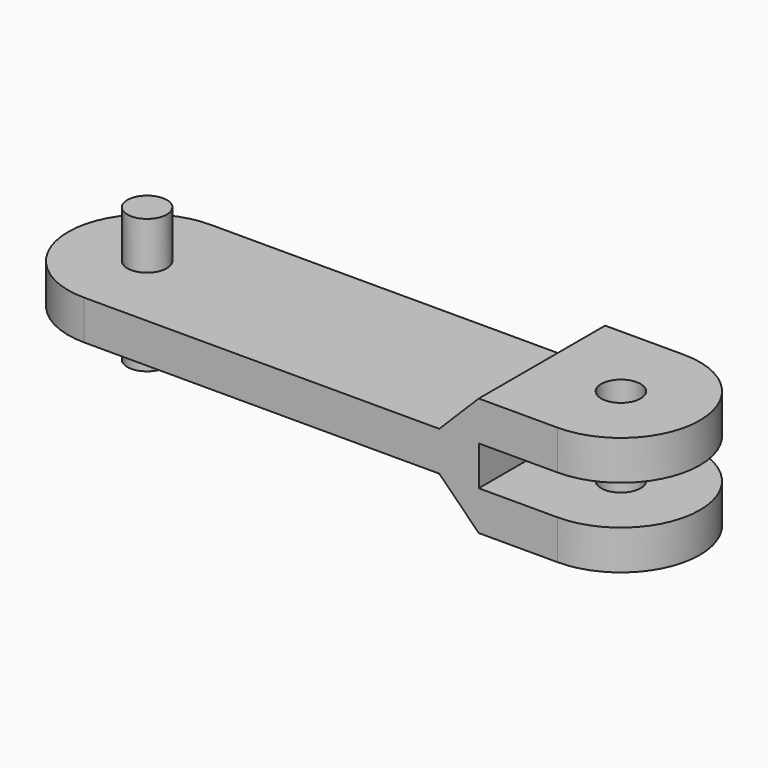
from build123d import *

# Parameters (mm, degrees)
PAD_DEPTH       = 5
SKETCH001_R     = 5
PAD001_DEPTH    = 12
PAD002_DEPTH    = 10
SKETCH003_W     = 40
SKETCH003_H     = 10
POCKET_DEPTH    = 40
POCKET001_DEPTH = 40
SKETCH005_R     = 5
POCKET002_DEPTH = 30


with BuildPart() as part:
    # Sketch → Pad (new body, symmetric)
    with BuildSketch(Plane.XY):
        with BuildLine():
            ThreePointArc((0, 20), (-20, 0), (0, -20))
            Line((0, -20), (119.999969, -20))
            ThreePointArc((119.999969, -20), (140, -1.6e-05), (120, 20))
            Line((0, 20), (120, 20))
        make_face()
    extrude(amount=PAD_DEPTH, both=True)

    # Sketch001 (on Face6 of Pad) → Pad001 (join)
    with BuildSketch(Plane.XY.offset(5)):
        Circle(SKETCH001_R)
    pad001 = extrude(amount=PAD001_DEPTH)

    # Sketch002 (on Face5 of Pad001) → Pad002 (join)
    with BuildSketch(Plane.XY.offset(5)):
        with BuildLine():
            Line((90, 20), (119.999998, 20))
            ThreePointArc((120.000041, -20), (140, 2.1e-05), (119.999998, 20))
            Line((120.000041, -20), (90, -20))
            Line((90, -20), (90, 20))
        make_face()
    pad002 = extrude(amount=PAD002_DEPTH)

    # Mirrored: Pad002 across XY
    add(pad002.mirror(Plane.XY))

    # Mirrored001: Pad001 across XY
    add(pad001.mirror(Plane.XY))

    # Sketch003 (on Face3 of Mirrored001) → Pocket (cut, symmetric)
    with BuildSketch(Plane.XZ.offset(20)):
        with Locations((120, 0)):
            Rectangle(SKETCH003_W, SKETCH003_H)
    extrude(amount=POCKET_DEPTH, both=True, mode=Mode.SUBTRACT)

    # Sketch004 (on Face10 of Pocket) → Pocket001 (cut)
    with BuildSketch(Plane.XZ.offset(20)):
        Polygon((90, 15), (90, 5), (100, 15), align=None)
    pocket001 = extrude(amount=-POCKET001_DEPTH, mode=Mode.SUBTRACT)

    # Mirrored002: Pocket001 across XY
    add(pocket001.mirror(Plane.XY), mode=Mode.SUBTRACT)

    # Sketch005 (on Face20 of Mirrored002) → Pocket002 (cut)
    with BuildSketch(Plane.XY.offset(15)):
        with Locations((120, 0)):
            Circle(SKETCH005_R)
    extrude(amount=-POCKET002_DEPTH, mode=Mode.SUBTRACT)


solid = part.part
